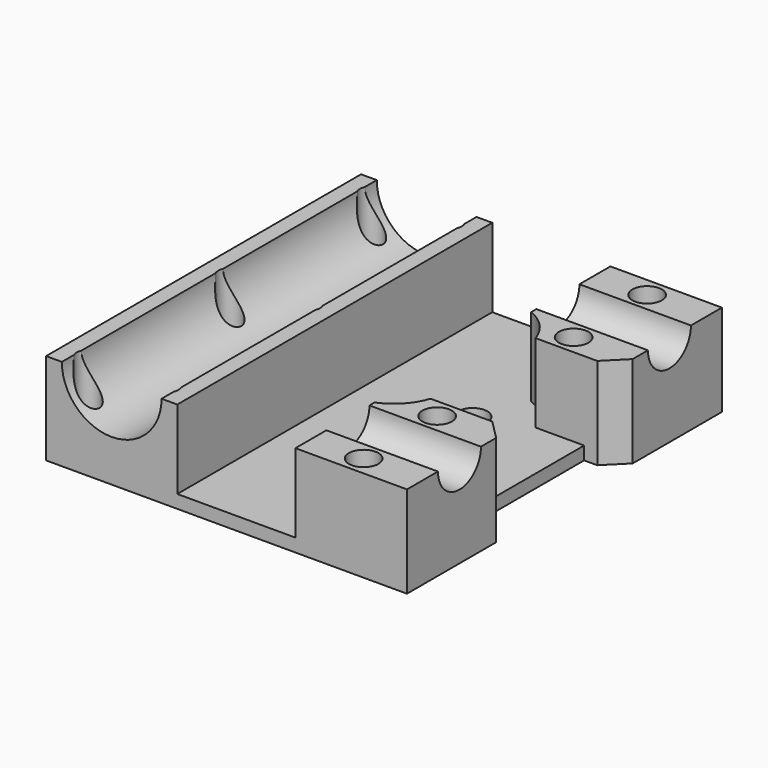
from build123d import *

# Parameters (mm, degrees)
SKETCH_W        = 55
SKETCH_H        = 60
PAD_DEPTH       = 14
SKETCH001_R     = 7.6
POCKET_DEPTH    = 60.001
SKETCH002_R     = 1.75
POCKET001_DEPTH = 14.001
POCKET002_DEPTH = 12
SKETCH004_R     = 2.25
POCKET003_DEPTH = 14.001
SKETCH008_R     = 4.1
POCKET005_DEPTH = 20
SKETCH010_W     = 20
SKETCH010_H     = 25
POCKET006_DEPTH = 5
SKETCH011_R     = 2.25
POCKET007_DEPTH = 10
CHAMFER_SIZE    = 3
CHAMFER001_SIZE = 3
POCKET008_DEPTH = 3


with BuildPart() as part:
    # Sketch → Pad (new body)
    with BuildSketch(Plane.XY):
        with Locations((17.5, 0)):
            Rectangle(SKETCH_W, SKETCH_H)
    extrude(amount=PAD_DEPTH)

    # Sketch001 → Pocket (cut, through all)
    with BuildSketch(Plane.XZ.offset(30)):
        with Locations((0, 14)):
            Circle(SKETCH001_R)
    extrude(amount=-POCKET_DEPTH, mode=Mode.SUBTRACT)

    # Sketch002 → Pocket001 (cut, through all)
    with BuildSketch(Plane(origin=(0, 0, 0), x_dir=(1, 0, 0), z_dir=(0, 0, -1))):
        with Locations((-6, 27)):
            Circle(SKETCH002_R)
        with Locations((-6, -27)):
            Circle(SKETCH002_R)
        with Locations((6, 27)):
            Circle(SKETCH002_R)
        with Locations((6, -27)):
            Circle(SKETCH002_R)
        with Locations((6, 0)):
            Circle(SKETCH002_R)
        with Locations((-6, 0)):
            Circle(SKETCH002_R)
    extrude(amount=-POCKET001_DEPTH, mode=Mode.SUBTRACT)

    # Sketch003 → Pocket002 (cut)
    with BuildSketch(Plane.XY.offset(14)):
        with BuildLine():
            Line((10, 35), (10, -35))
            Line((10, -35), (28, -35))
            Line((28, -35), (28, -14.916198))
            ThreePointArc((28, -14.916198), (30.841983, -12.965458), (32.599342, -10))
            Line((32.599342, -10), (52.599342, -10))
            Line((52.599342, -10), (52.599342, 10))
            Line((52.599342, 10), (32.599342, 10))
            ThreePointArc((32.599342, 10), (30.841983, 12.965458), (28, 14.916198))
            Line((28, 14.916198), (28, 35))
            Line((28, 35), (10, 35))
        make_face()
    extrude(amount=-POCKET002_DEPTH, mode=Mode.SUBTRACT)

    # Sketch004 → Pocket003 (cut, through all)
    with BuildSketch(Plane(origin=(0, 0, 0), x_dir=(1, 0, 0), z_dir=(0, 0, -1))):
        with Locations((25, 7.5)):
            Circle(SKETCH004_R)
        with Locations((25, -7.5)):
            Circle(SKETCH004_R)
    extrude(amount=-POCKET003_DEPTH, mode=Mode.SUBTRACT)

    # Sketch008 → Pocket005 (cut)
    with BuildSketch(Plane.YZ.offset(45)):
        with Locations((-20, 14)):
            Circle(SKETCH008_R)
        with Locations((20, 14)):
            Circle(SKETCH008_R)
    extrude(amount=-POCKET005_DEPTH, mode=Mode.SUBTRACT)

    # Sketch010 → Pocket006 (cut)
    with BuildSketch(Plane.YZ.offset(45)):
        with Locations((0, 6.5)):
            Rectangle(SKETCH010_W, SKETCH010_H)
    extrude(amount=-POCKET006_DEPTH, mode=Mode.SUBTRACT)

    # Sketch011 → Pocket007 (cut)
    with BuildSketch(Plane.XY.offset(14)):
        with Locations((36, 27)):
            Circle(SKETCH011_R)
        with Locations((36, 13)):
            Circle(SKETCH011_R)
        with Locations((36, -13)):
            Circle(SKETCH011_R)
        with Locations((36, -27)):
            Circle(SKETCH011_R)
    extrude(amount=-POCKET007_DEPTH, mode=Mode.SUBTRACT)

    # Chamfer
    chamfer_edges = [part.edges().sort_by_distance(p)[0] for p in [
        (45, -10, 8),
        (45, -10, 1),
    ]]
    chamfer(chamfer_edges, length=CHAMFER_SIZE)

    # Chamfer001
    chamfer001_edges = [part.edges().sort_by_distance(p)[0] for p in [
        (45, 10, 8),
        (45, 10, 1),
    ]]
    chamfer(chamfer001_edges, length=CHAMFER001_SIZE)

    # Sketch012 → Pocket008 (cut)
    with BuildSketch(Plane(origin=(0, 0, 0), x_dir=(1, 0, 0), z_dir=(0, 0, -1))):
        Polygon((-4.412285, 29.750003), (-7.587715, 29.750003), (-9.17543, 27), (-7.587715, 24.249997), (-4.412285, 24.249997), (-2.82457, 27), align=None)
        Polygon((7.587715, 29.750003), (4.412285, 29.750003), (2.82457, 27), (4.412285, 24.249997), (7.587715, 24.249997), (9.17543, 27), align=None)
        Polygon((-4.412285, 2.750003), (-7.587715, 2.750003), (-9.17543, 0), (-7.587715, -2.750003), (-4.412285, -2.750003), (-2.82457, 0), align=None)
        Polygon((7.587715, 2.750003), (4.412285, 2.750003), (2.82457, 0), (4.412285, -2.750003), (7.587715, -2.750003), (9.17543, 0), align=None)
        Polygon((-4.412285, -24.249997), (-7.587715, -24.249997), (-9.17543, -27), (-7.587715, -29.750003), (-4.412285, -29.750003), (-2.82457, -27), align=None)
        Polygon((7.587715, -24.249997), (4.412285, -24.249997), (2.82457, -27), (4.412285, -29.750003), (7.587715, -29.750003), (9.17543, -27), align=None)
    extrude(amount=-POCKET008_DEPTH, mode=Mode.SUBTRACT)


solid = part.part
